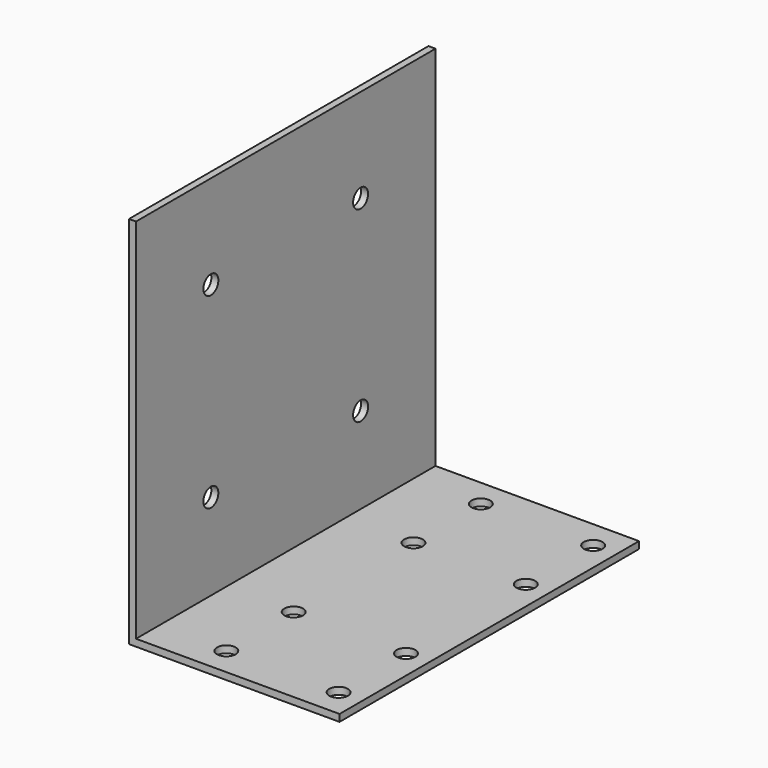
from build123d import *

# Parameters (mm, degrees)
F1_DEPTH = 80
F3_D     = 4
F5_D     = 4


with BuildPart() as f1:
    # F0 (on Front) → F1 (new body)
    with BuildSketch(Plane.XZ):
        Polygon((-83.770444, 112.477971), (-85.270444, 112.477971), (-85.270444, 32.477971), (-40.270444, 32.477971), (-40.270444, 33.977971), (-83.770444, 33.977971), align=None)
    extrude(amount=F1_DEPTH)

    # F3 (through all)
    with Locations(Plane(origin=(0, 0, 32.477971), x_dir=(1, 0, 0), z_dir=(0, 0, -1))):
        with Locations((-45.270444, 74), (-69.270444, 74), (-69.270444, 56), (-45.270444, 56), (-45.270444, 24), (-45.270444, 6), (-69.270444, 6), (-69.270444, 24)):
            Hole(F3_D / 2)

    # F5 (through all)
    with Locations(Plane(origin=(-85.270444, 0, 0), x_dir=(0, -1, 0), z_dir=(-1, 0, 0))):
        with Locations((20, 52.477971), (60, 52.477971), (60, 92.477971), (20, 92.477971)):
            Hole(F5_D / 2)


solid = f1.part
